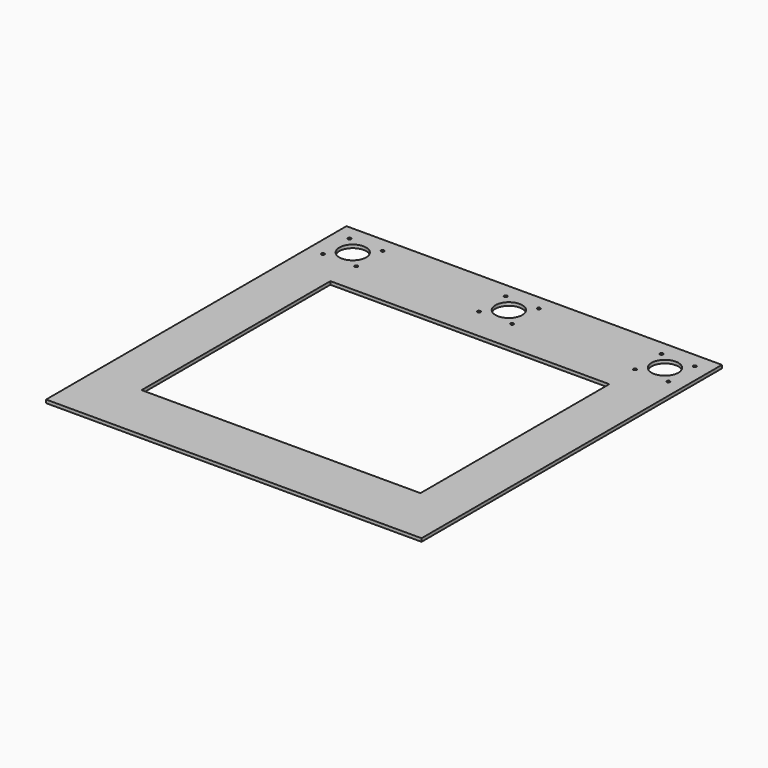
from build123d import *

# Parameters (mm, degrees)
F0_W     = 350
F0_H     = 350
F1_DEPTH = 3
F2_W     = 260
F2_H     = 220
F3_DEPTH = 25
F5_D     = 3
F4_R     = 12.5
F6_DEPTH = 25


with BuildPart() as f1:
    # F0 (on Top) → F1 (new body)
    with BuildSketch(Plane.XY):
        Rectangle(F0_W, F0_H)
    extrude(amount=F1_DEPTH)

    # F2 (on face) → F3 (cut)
    with BuildSketch(Plane.XY.offset(3)):
        with Locations((0, -10)):
            Rectangle(F2_W, F2_H)
    extrude(amount=-F3_DEPTH, mode=Mode.SUBTRACT)

    # F5 (through all)
    with Locations(Plane.XY.offset(3)):
        with Locations((-161, 161), (-161, 130), (-130, 130), (-130, 161), (130, 161), (161, 161), (161, 130), (130, 130), (-15.5, 161), (-15.5, 130), (15.5, 130), (15.5, 161)):
            Hole(F5_D / 2)

    # F4 (on face) → F6 (cut)
    with BuildSketch(Plane.XY.offset(3)):
        with Locations((-145.5, 145.5)):
            Circle(F4_R)
        with Locations((145.5, 145.5)):
            Circle(F4_R)
        with Locations((0, 145.5)):
            Circle(F4_R)
    extrude(amount=-F6_DEPTH, mode=Mode.SUBTRACT)


solid = f1.part
